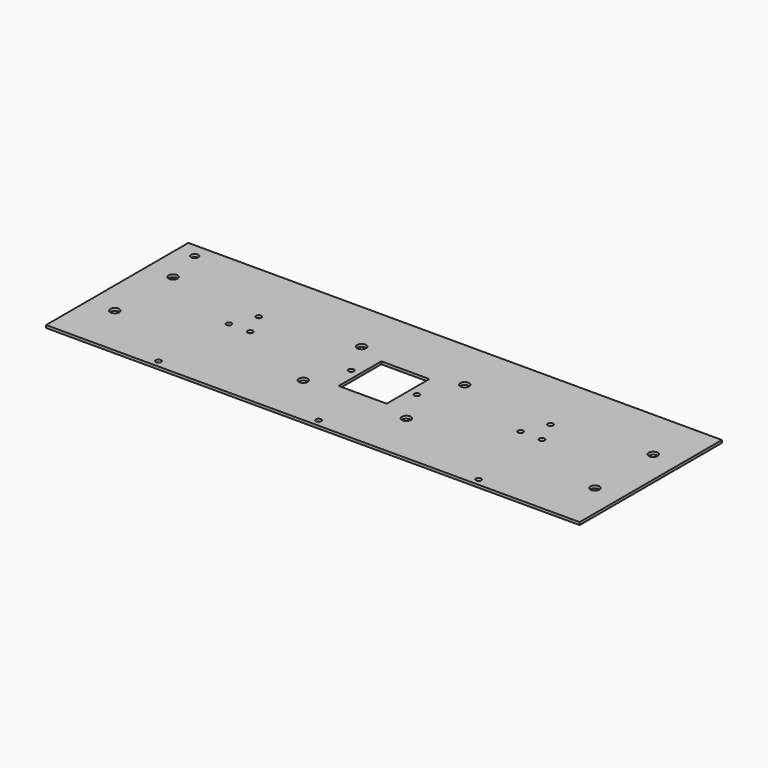
from build123d import *

# Parameters (mm, degrees)
F0_W     = 300
F0_H     = 100
F0_R     = 1.5
F0_R_2   = 2.55
F0_R_3   = 2
F0_W_2   = 27
F0_H_2   = 30
F1_DEPTH = 1.5


with BuildPart() as f1:
    # F0 (on Top) → F1 (new body)
    with BuildSketch(Plane.XY):
        with Locations((150, 50)):
            Rectangle(F0_W, F0_H)
        with Locations((60, 4)):
            Circle(F0_R, mode=Mode.SUBTRACT)
        with Locations((15, 29.5)):
            Circle(F0_R_2, mode=Mode.SUBTRACT)
        with Locations((121, 29.5)):
            Circle(F0_R_2, mode=Mode.SUBTRACT)
        with Locations((150, 4)):
            Circle(F0_R, mode=Mode.SUBTRACT)
        with Locations((240, 4)):
            Circle(F0_R, mode=Mode.SUBTRACT)
        with Locations((179, 29.5)):
            Circle(F0_R_2, mode=Mode.SUBTRACT)
        with Locations((285, 29.5)):
            Circle(F0_R_2, mode=Mode.SUBTRACT)
        with Locations((62, 51)):
            Circle(F0_R, mode=Mode.SUBTRACT)
        with Locations((74, 51)):
            Circle(F0_R, mode=Mode.SUBTRACT)
        with Locations((15, 70.5)):
            Circle(F0_R_2, mode=Mode.SUBTRACT)
        with Locations((68, 64.5)):
            Circle(F0_R, mode=Mode.SUBTRACT)
        with Locations((131.5, 50)):
            Circle(F0_R, mode=Mode.SUBTRACT)
        with Locations((121, 70.5)):
            Circle(F0_R_2, mode=Mode.SUBTRACT)
        with Locations((10, 92)):
            Circle(F0_R_3, mode=Mode.SUBTRACT)
        with Locations((150, 50)):
            Rectangle(F0_W_2, F0_H_2, mode=Mode.SUBTRACT)
        with Locations((168.5, 50)):
            Circle(F0_R, mode=Mode.SUBTRACT)
        with Locations((179, 70.5)):
            Circle(F0_R_2, mode=Mode.SUBTRACT)
        with Locations((226, 51)):
            Circle(F0_R, mode=Mode.SUBTRACT)
        with Locations((238, 51)):
            Circle(F0_R, mode=Mode.SUBTRACT)
        with Locations((232, 64.5)):
            Circle(F0_R, mode=Mode.SUBTRACT)
        with Locations((285, 70.5)):
            Circle(F0_R_2, mode=Mode.SUBTRACT)
    extrude(amount=-F1_DEPTH)


solid = f1.part
